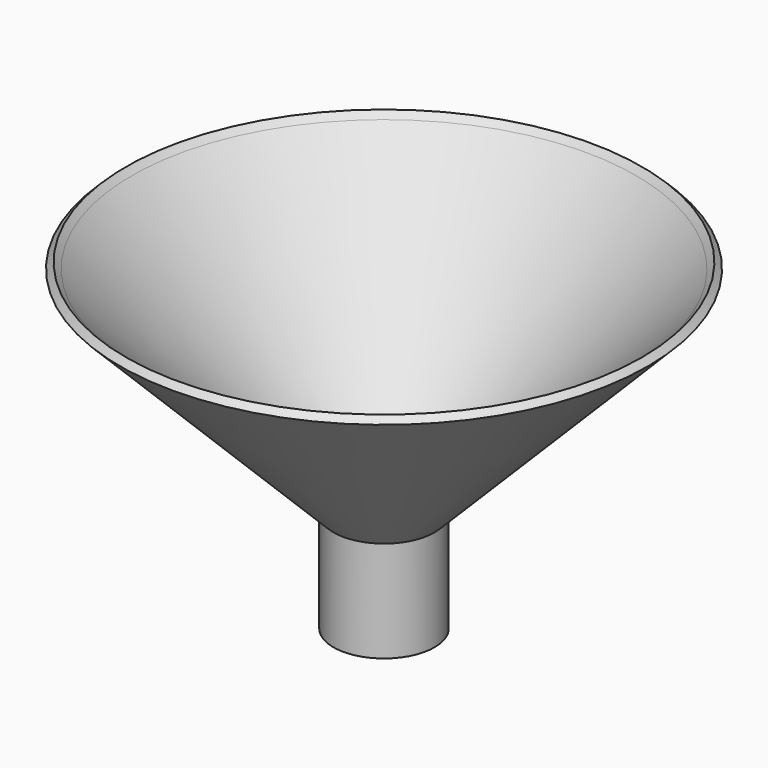
from build123d import *

# Parameters (mm, degrees)
F1_FACE_R = 12.7
F2_DEPTH  = 25.4
F3_R      = 11.43
F4_DEPTH  = 25.4


with BuildPart() as f1:
    # F0 (on Front) → F1 (revolve)
    with BuildSketch(Plane.XZ):
        Polygon((0, -9.356778), (12.7, -9.356778), (12.7, 16.043222), (66.294158, 70.210613), (64.797749, 71.691186), (63.332844, 70.210613), (9.738686, 16.043222), (0, 16.043222), align=None)
    revolve(axis=Axis((0, 0, 3.343222), (0, 0, 1)))

    # F1_face (on face) → F2 (cut)
    with BuildSketch(Plane(origin=(0, 0, -9.356778), x_dir=(1, 0, 0), z_dir=(0, 0, -1))):
        Circle(F1_FACE_R)
    extrude(amount=F2_DEPTH, mode=Mode.SUBTRACT)

    # F3 (on face) → F4 (cut)
    with BuildSketch(Plane(origin=(0, 0, -9.356778), x_dir=(1, 0, 0), z_dir=(0, 0, -1))):
        Circle(F3_R)
    extrude(amount=-F4_DEPTH, mode=Mode.SUBTRACT)


solid = f1.part
